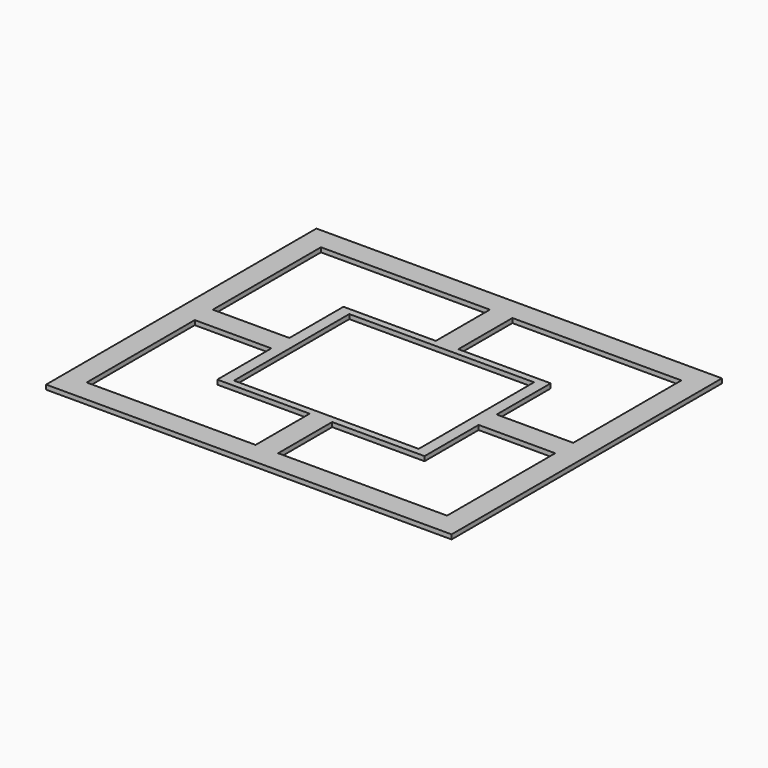
from build123d import *

# Parameters (mm, degrees)
F0_W     = 82
F0_H     = 64
F1_DEPTH = 2


with BuildPart() as f1:
    # F0 (on Top) → F1 (new body)
    with BuildSketch(Plane.XY):
        Polygon((-3.740103, 70.98309), (-88.740103, 70.98309), (-88.740103, 0.98309), (-88.740103, -9.01691), (-88.740103, -79.01691), (-3.740103, -79.01691), (6.259897, -79.01691), (91.259897, -79.01691), (91.259897, -9.01691), (91.259897, 0.98309), (91.259897, 70.98309), (6.259897, 70.98309), align=None)
        Polygon((-78.740103, -69.01691), (-78.740103, -9.01691), (-44.740103, -9.01691), (-44.740103, -39.01691), (-3.740103, -39.01691), (-3.740103, -69.01691), align=None, mode=Mode.SUBTRACT)
        Polygon((6.259897, -39.01691), (47.259897, -39.01691), (47.259897, -9.01691), (81.259897, -9.01691), (81.259897, -69.01691), (6.259897, -69.01691), align=None, mode=Mode.SUBTRACT)
        Polygon((-78.740103, 60.98309), (-3.740103, 60.98309), (-3.740103, 30.98309), (-44.740103, 30.98309), (-44.740103, 0.98309), (-78.740103, 0.98309), align=None, mode=Mode.SUBTRACT)
        with Locations((1.259897, -4.01691)):
            Rectangle(F0_W, F0_H, mode=Mode.SUBTRACT)
        Polygon((6.259897, 30.98309), (6.259897, 60.98309), (81.259897, 60.98309), (81.259897, 0.98309), (47.259897, 0.98309), (47.259897, 30.98309), align=None, mode=Mode.SUBTRACT)
    extrude(amount=F1_DEPTH)


solid = f1.part
